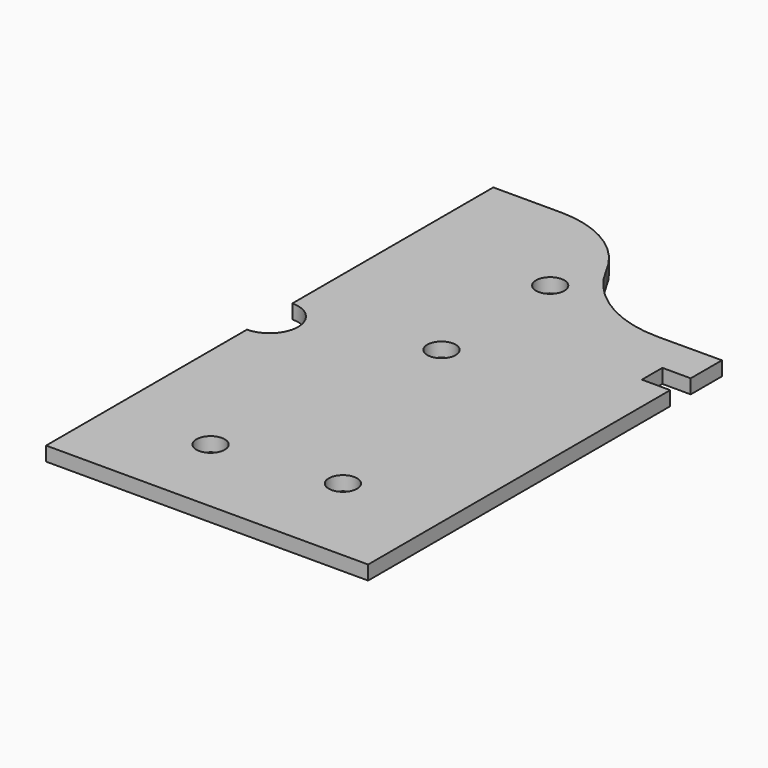
from build123d import *

# Parameters (mm, degrees)
F1_DEPTH = 1.5875
F2_D     = 3.175


with BuildPart() as f1:
    # F0 (on Top) → F1 (new body)
    with BuildSketch(Plane.XY):
        with BuildLine():
            Line((0, 28.1305), (0, 0))
            Line((0, 0), (36.068, 0))
            Line((36.068, 0), (36.068, 42.291))
            Line((36.068, 42.291), (32.893, 42.291))
            Line((32.893, 42.291), (32.893, 45.1612))
            Line((32.893, 45.1612), (36.068, 45.1612))
            Line((36.068, 45.1612), (36.068, 49.53))
            Line((36.068, 49.53), (28.9306, 49.506645))
            ThreePointArc((28.9306, 49.506645), (22.244888, 51.383214), (17.545554, 56.495603))
            ThreePointArc((17.545554, 56.495603), (13.449123, 60.959419), (7.62, 62.611))
            Line((7.62, 62.611), (0, 62.611))
            Line((0, 62.611), (0, 34.4805))
            ThreePointArc((0, 34.4805), (2.245064, 33.550564), (3.175, 31.3055))
            ThreePointArc((3.175, 31.3055), (2.245064, 29.060436), (0, 28.1305))
        make_face()
    extrude(amount=-F1_DEPTH)

    # F2 (through all)
    with Locations(Plane.XY):
        with Locations((15.494, 51.2064), (15.6845, 35.7505), (11.1125, 9.144), (24.765, 10.6045)):
            Hole(F2_D / 2)


solid = f1.part
